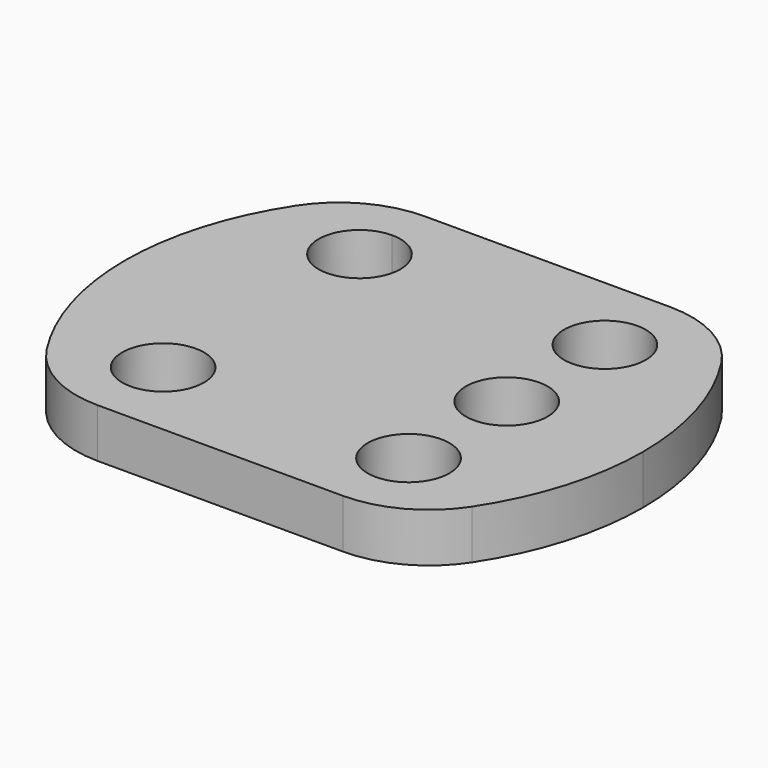
from build123d import *

# Parameters (mm, degrees)
F0_R     = 5
F1_DEPTH = 6


with BuildPart() as f1:
    # F0 (on Top) → F1 (new body)
    with BuildSketch(Plane.XY):
        with BuildLine():
            ThreePointArc((25.997207, 19.047722), (21.252363, 23.416479), (15, 25))
            Line((15, 25), (-15, 25))
            ThreePointArc((-15, 25), (-21.252363, 23.416479), (-25.997207, 19.047722))
            ThreePointArc((-25.997207, 19.047722), (-30.219228, 9.936781), (-31.666667, 0))
            ThreePointArc((-31.666667, 0), (-30.219228, -9.936781), (-25.997207, -19.047722))
            ThreePointArc((-25.997207, -19.047722), (-21.252363, -23.416479), (-15, -25))
            Line((-15, -25), (15, -25))
            ThreePointArc((15, -25), (21.252363, -23.416479), (25.997207, -19.047722))
            ThreePointArc((25.997207, -19.047722), (30.219228, -9.936781), (31.666667, 0))
            ThreePointArc((31.666667, 0), (30.219228, 9.936781), (25.997207, 19.047722))
        make_face()
        with Locations((-15, -15)):
            Circle(F0_R, mode=Mode.SUBTRACT)
        with Locations((15, -15)):
            Circle(F0_R, mode=Mode.SUBTRACT)
        with BuildLine():
            ThreePointArc((-10, 15), (-18.535534, 11.464466), (-15, 20))
            ThreePointArc((-15, 20), (-11.464466, 18.535534), (-10, 15))
        make_face(mode=Mode.SUBTRACT)
        with Locations((15, 0)):
            Circle(F0_R, mode=Mode.SUBTRACT)
        with Locations((15, 15)):
            Circle(F0_R, mode=Mode.SUBTRACT)
    extrude(amount=F1_DEPTH)


solid = f1.part
